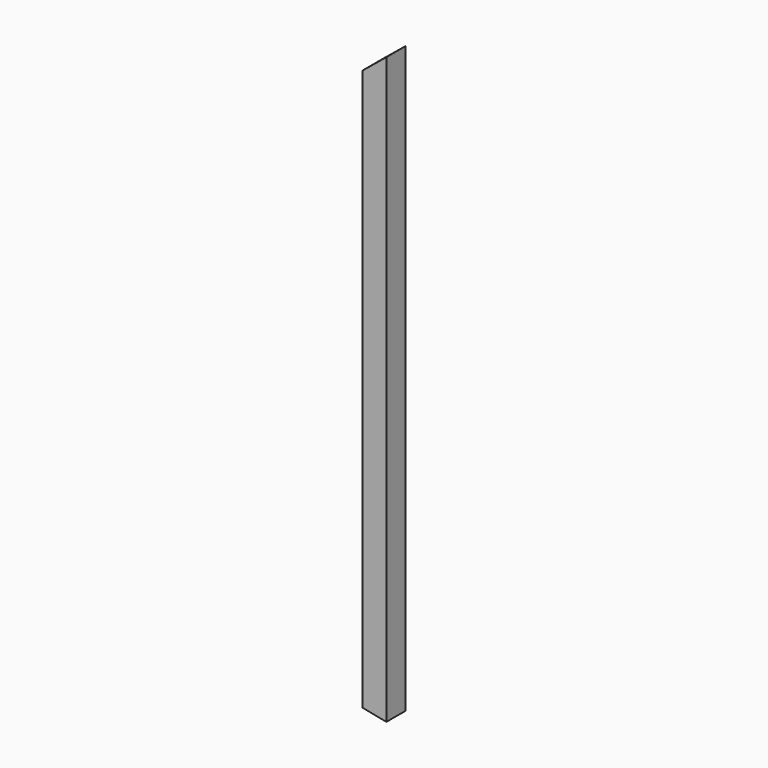
from build123d import *

# Parameters (mm, degrees)
SKETCH_W        = 31.75
SKETCH_H        = 31.75
SKETCH_W_2      = 26.2128
SKETCH_H_2      = 26.2128
PAD_DEPTH       = 777.09014
POCKET_DEPTH    = 31.75
POCKET001_DEPTH = 31.75


with BuildPart() as part:
    # Sketch → Pad (new body)
    with BuildSketch(Plane.XY):
        Rectangle(SKETCH_W, SKETCH_H)
        Rectangle(SKETCH_W_2, SKETCH_H_2, mode=Mode.SUBTRACT)
    extrude(amount=PAD_DEPTH)

    # Sketch001 → Pocket (cut)
    with BuildSketch(Plane.XZ.offset(15.875)):
        Polygon((15.875, 0), (-15.875, 0), (-15.875, 6.349981), align=None)
    extrude(amount=-POCKET_DEPTH, mode=Mode.SUBTRACT)

    # Sketch002 → Pocket001 (cut)
    with BuildSketch(Plane.XZ.offset(15.875)):
        Polygon((15.875, 777.09014), (-15.875, 777.09014), (-15.875, 751.061397), align=None)
    extrude(amount=-POCKET001_DEPTH, mode=Mode.SUBTRACT)


solid = part.part
